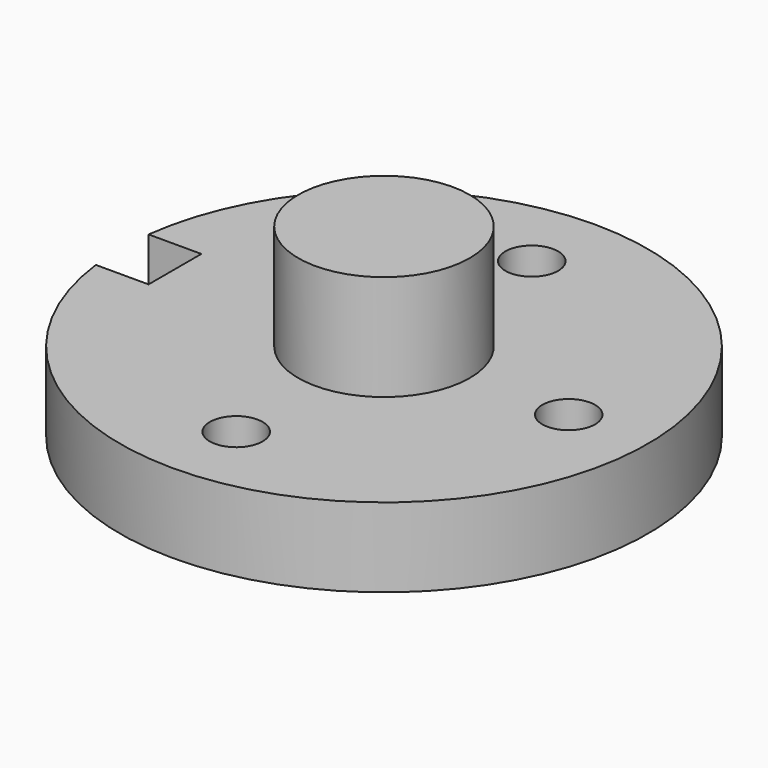
from build123d import *

# Parameters (mm, degrees)
F0_R     = 6.35
F1_DEPTH = 19.05
F2_R     = 20.6375
F3_DEPTH = 25.4


with BuildPart() as f1:
    # F0 (on Top) → F1 (new body)
    with BuildSketch(Plane.XY):
        with BuildLine():
            Line((-50.301953, -7.9375), (-63.001953, -7.9375))
            ThreePointArc((-63.001953, -7.9375), (63.5, 0), (-63.001953, 7.9375))
            Line((-63.001953, 7.9375), (-50.301953, 7.9375))
            Line((-50.301953, 7.9375), (-50.301953, -7.9375))
        make_face()
        with Locations((0, -44.45)):
            Circle(F0_R, mode=Mode.SUBTRACT)
        with Locations((0, 44.45)):
            Circle(F0_R, mode=Mode.SUBTRACT)
        with Locations((44.45, 0)):
            Circle(F0_R, mode=Mode.SUBTRACT)
    extrude(amount=F1_DEPTH)

    # F2 (on face) → F3 (join)
    with BuildSketch(Plane.XY.offset(19.05)):
        Circle(F2_R)
    extrude(amount=F3_DEPTH)


solid = f1.part
